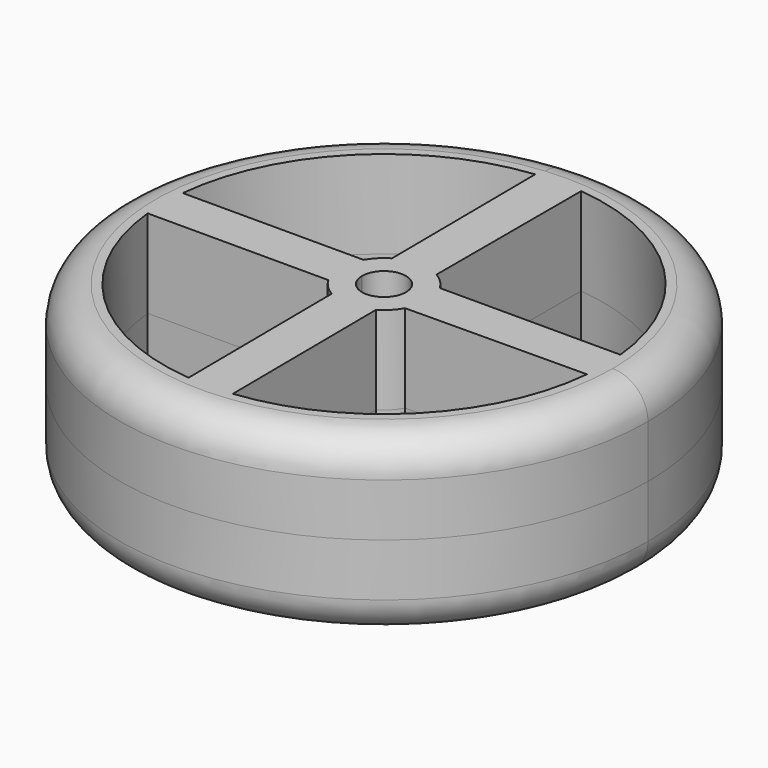
from build123d import *

# Parameters (mm, degrees)
F1_DEPTH = 12.7
F2_R     = 5.08


with BuildPart() as f1:
    # F0 (on Top) → F1 (new body, symmetric)
    with BuildSketch(Plane.XY):
        with BuildLine():
            ThreePointArc((-3.4785269319, 37.9408730841), (-25.6814925958, -28.1437548677), (38.1, 0))
            ThreePointArc((38.1, 0), (25.6814925958, 28.1437548677), (-3.4785269319, 37.9408730841))
        make_face()
        with BuildLine():
            Line((-31.592077867, -3.1627703114), (-5.5063040197, -3.1627703114))
            ThreePointArc((-5.5063040197, -3.1627703114), (-4.4770971755, -4.5031212377), (-3.1308036687, -5.5245423691))
            Line((-3.1308036687, -5.5245423691), (-2.9220780532, -31.6152488501))
            ThreePointArc((-2.9220780532, -31.6152488501), (-22.364986552, -22.5359685066), (-31.592077867, -3.1627703114))
        make_face(mode=Mode.SUBTRACT)
        with BuildLine():
            Line((3.427515573, -31.5644521099), (3.2187899574, -5.4737456289))
            ThreePointArc((3.2187899574, -5.4737456289), (4.5317502787, -4.4481163892), (5.5327472436, -3.1162811071))
            Line((5.5327472436, -3.1162811071), (31.6165826967, -2.9076104598))
            ThreePointArc((31.6165826967, -2.9076104598), (22.6346161713, -22.2651443017), (3.427515573, -31.5644521099))
        make_face(mode=Mode.SUBTRACT)
        with BuildLine():
            ThreePointArc((-31.5908511281, 3.175), (-22.5402251404, 22.3606965594), (-3.427515573, 31.5644521099))
            Line((-3.427515573, 31.5644521099), (-3.2187899574, 5.4737456289))
            ThreePointArc((-3.2187899574, 5.4737456289), (-4.5080109094, 4.4721737042), (-5.499261314, 3.175))
            Line((-5.499261314, 3.175), (-31.5908511281, 3.175))
        make_face(mode=Mode.SUBTRACT)
        with BuildLine():
            ThreePointArc((-3.175, 0), (0, 3.175), (3.175, 0))
            ThreePointArc((3.175, 0), (2.3585063022, -2.1255759272), (0.3289697497, -3.1579113198))
            ThreePointArc((0.3289697497, -3.1579113198), (0.0253991828, -3.1748984049), (-0.2784043055, -3.1627703114))
            ThreePointArc((-0.2784043055, -3.1627703114), (-2.3241974004, -2.1630375503), (-3.1745936261, -0.0507967402))
            Line((-3.1745936261, -0.0507967402), (-3.175, 0))
        make_face(mode=Mode.SUBTRACT)
        with BuildLine():
            Line((31.5908511281, 3.175), (5.499261314, 3.175))
            ThreePointArc((5.499261314, 3.175), (4.4901280605, 4.4901280605), (3.175, 5.499261314))
            Line((3.175, 5.499261314), (3.175, 31.5908511281))
            ThreePointArc((3.175, 31.5908511281), (22.4506403027, 22.4506403027), (31.5908511281, 3.175))
        make_face(mode=Mode.SUBTRACT)
    extrude(amount=F1_DEPTH, both=True)

    # F2
    f2_edges = [f1.edges().sort_by_distance(p)[0] for p in [
        (-25.681493, -28.143755, 12.7),
        (-25.681493, -28.143755, -12.7),
    ]]
    fillet(f2_edges, radius=F2_R)


solid = f1.part
